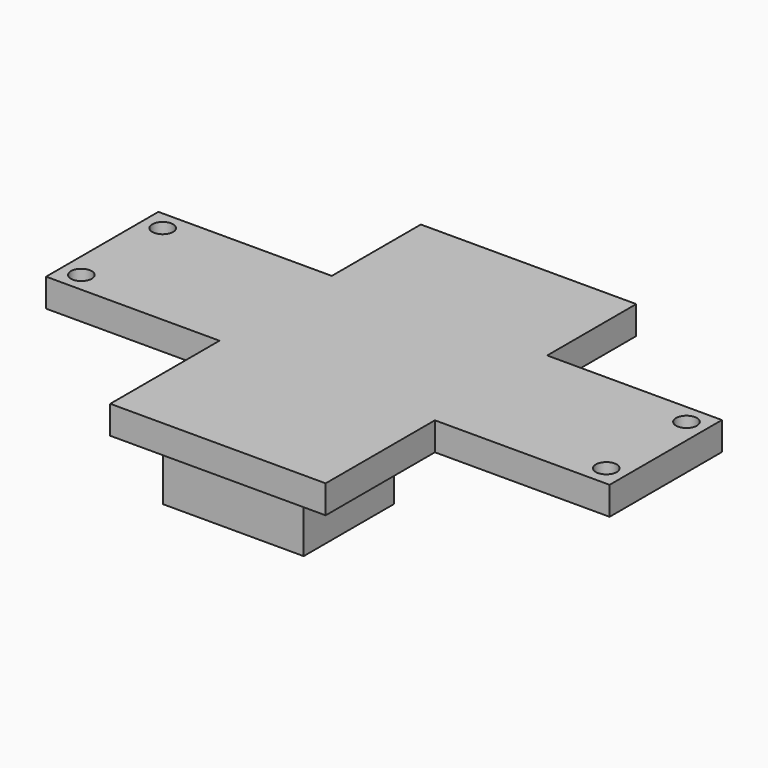
from build123d import *

# Parameters (mm, degrees)
F0_W     = 38.225519
F0_H     = 68.893833
F1_DEPTH = 5
F2_W     = 100
F2_H     = 24.910029
F3_DEPTH = 5
F4_R     = 1.85
F5_DEPTH = 25.4
F6_W     = 25
F6_H     = 20
F7_DEPTH = 10
F8_R     = 3.25
F9_DEPTH = 5


with BuildPart() as f1:
    # F0 (on Top) → F1 (new body)
    with BuildSketch(Plane.XY):
        with Locations((4.975074, 16.320151)):
            Rectangle(F0_W, F0_H)
    extrude(amount=-F1_DEPTH)

    # F2 (on face) → F3 (join)
    with BuildSketch(Plane(origin=(0, 0, -5), x_dir=(1, 0, 0), z_dir=(0, 0, -1))):
        with Locations((5.092296, -18.559826)):
            Rectangle(F2_W, F2_H)
    extrude(amount=-F3_DEPTH)

    # F4 (on face) → F5 (cut)
    with BuildSketch(Plane.XY):
        with Locations((-41.387634, 27.575926)):
            Circle(F4_R)
        with Locations((51.599746, 27.514396)):
            Circle(F4_R)
        with Locations((-41.413683, 9.564399)):
            Circle(F4_R)
        with Locations((51.624972, 9.70294)):
            Circle(F4_R)
    extrude(amount=-F5_DEPTH, mode=Mode.SUBTRACT)

    # F6 (on face) → F7 (join)
    with BuildSketch(Plane(origin=(0, 0, -5), x_dir=(1, 0, 0), z_dir=(0, 0, -1))):
        with Locations((4.862315, 4.593138)):
            Rectangle(F6_W, F6_H)
    extrude(amount=F7_DEPTH)

    # F8 (on face) → F9 (cut)
    with BuildSketch(Plane(origin=(0, 0, -15), x_dir=(1, 0, 0), z_dir=(0, 0, -1))):
        with Locations((4.862315, 4.593138)):
            Circle(F8_R)
    extrude(amount=-F9_DEPTH, mode=Mode.SUBTRACT)


solid = f1.part
